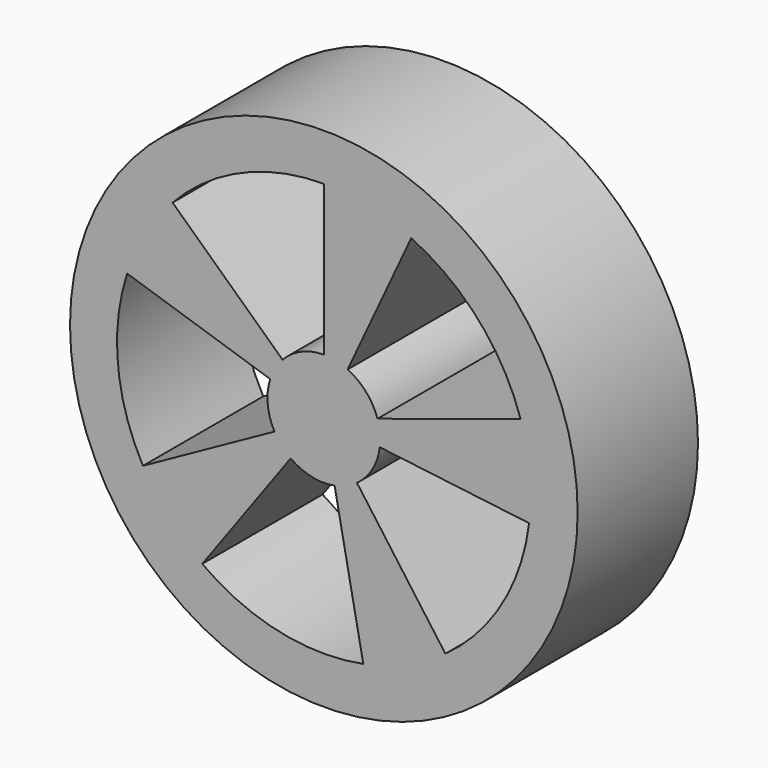
from build123d import *

# Parameters (mm, degrees)
F0_R     = 6.75
F1_DEPTH = 4
F3_DEPTH = 25


with BuildPart() as f1:
    # F0 (on Front) → F1 (new body)
    with BuildSketch(Plane.XZ):
        Circle(F0_R)
    extrude(amount=F1_DEPTH)

    # F2 (on face) → F3 (cut)
    with BuildSketch(Plane.XZ.offset(4)):
        with BuildLine():
            Line((0, 1.5), (0, 5.5))
            ThreePointArc((0, 5.5), (-2.19312, 5.04383), (-4.022445, 3.750991))
            Line((-4.022445, 3.750991), (-1.097031, 1.022998))
            ThreePointArc((-1.097031, 1.022998), (-0.598124, 1.37559), (0, 1.5))
        make_face()
        with BuildLine():
            Line((1.426585, 0.463525), (5.230811, 1.699593))
            ThreePointArc((5.230811, 1.699593), (4.119256, 3.64441), (2.3244, 4.984693))
            Line((2.3244, 4.984693), (0.633927, 1.359462))
            ThreePointArc((0.633927, 1.359462), (1.123434, 0.99393), (1.426585, 0.463525))
        make_face()
        with BuildLine():
            ThreePointArc((3.232819, -4.449593), (4.73896, -2.791461), (5.459004, -0.670281))
            Line((5.459004, -0.670281), (1.488819, -0.182804))
            ThreePointArc((1.488819, -0.182804), (1.292444, -0.761308), (0.881678, -1.213525))
            Line((0.881678, -1.213525), (3.232819, -4.449593))
        make_face()
        with BuildLine():
            ThreePointArc((-3.232819, -4.449593), (-1.190418, -5.369628), (1.049449, -5.39895))
            Line((1.049449, -5.39895), (0.286213, -1.472441))
            ThreePointArc((0.286213, -1.472441), (-0.324659, -1.464444), (-0.881678, -1.213525))
            Line((-0.881678, -1.213525), (-3.232819, -4.449593))
        make_face()
        with BuildLine():
            Line((-1.426585, 0.463525), (-5.230811, 1.699593))
            ThreePointArc((-5.230811, 1.699593), (-5.474679, -0.527152), (-4.810408, -2.666453))
            Line((-4.810408, -2.666453), (-1.31193, -0.727214))
            ThreePointArc((-1.31193, -0.727214), (-1.493094, -0.143769), (-1.426585, 0.463525))
        make_face()
    extrude(amount=-F3_DEPTH, mode=Mode.SUBTRACT)


solid = f1.part
